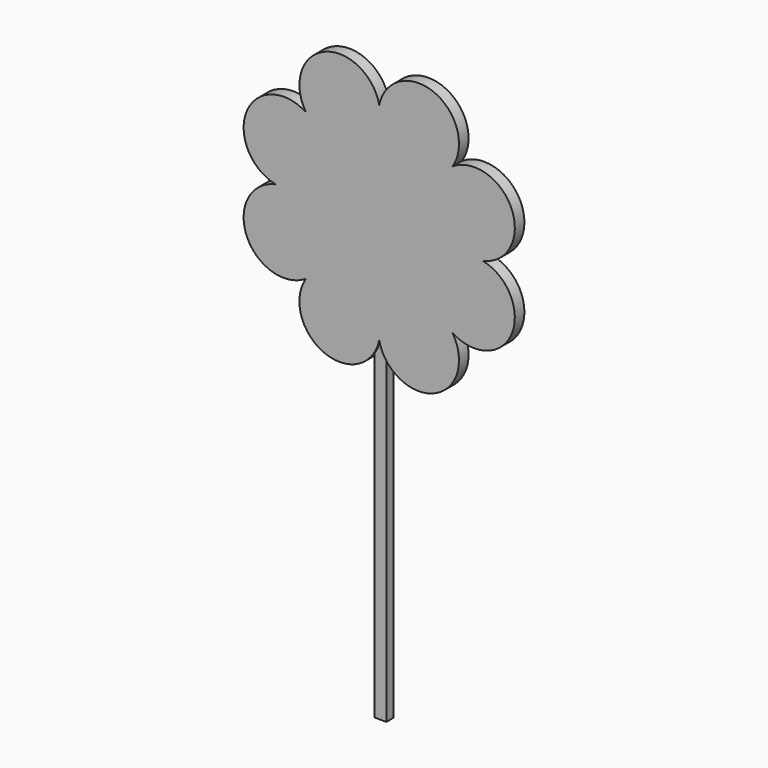
from build123d import *

# Parameters (mm, degrees)
F1_DEPTH = 1.5875
F2_DEPTH = 1.190625


with BuildPart() as f1:
    # F0 (on Front) → F1 (new body, symmetric)
    with BuildSketch(Plane.XZ):
        Polygon((-19.440318, 96.952444), (0, 88.9), (19.440318, 96.952444), (27.492762, 116.392762), (19.440318, 135.83308), (0, 143.885524), (-19.440318, 135.83308), (-27.492762, 116.392762), align=None)
        with BuildLine():
            Line((1.5875, 88.9), (1.5875, 85.124308))
            ThreePointArc((1.5875, 85.124308), (16.396635, 82.159273), (19.440318, 96.952444))
            Line((19.440318, 96.952444), (0, 88.9))
            Line((0, 88.9), (1.5875, 88.9))
        make_face()
        with BuildLine():
            Line((27.492762, 116.392762), (19.440318, 96.952444))
            ThreePointArc((19.440318, 96.952444), (35.19981, 101.812523), (27.492762, 116.392762))
        make_face()
        with BuildLine():
            Line((19.440318, 135.83308), (27.492762, 116.392762))
            ThreePointArc((27.492762, 116.392762), (35.19981, 130.973001), (19.440318, 135.83308))
        make_face()
        with BuildLine():
            Line((0, 143.885524), (19.440318, 135.83308))
            ThreePointArc((19.440318, 135.83308), (14.580239, 151.592572), (0, 143.885524))
        make_face()
        with BuildLine():
            ThreePointArc((0, 143.885524), (-14.580239, 151.592572), (-19.440318, 135.83308))
            Line((-19.440318, 135.83308), (0, 143.885524))
        make_face()
        with BuildLine():
            ThreePointArc((-19.440318, 135.83308), (-35.19981, 130.973001), (-27.492762, 116.392762))
            Line((-27.492762, 116.392762), (-19.440318, 135.83308))
        make_face()
        with BuildLine():
            ThreePointArc((-27.492762, 116.392762), (-35.19981, 101.812523), (-19.440318, 96.952444))
            Line((-19.440318, 96.952444), (-27.492762, 116.392762))
        make_face()
        with BuildLine():
            Line((-1.5875, 88.9), (0, 88.9))
            Line((0, 88.9), (-19.440318, 96.952444))
            ThreePointArc((-19.440318, 96.952444), (-16.396635, 82.159273), (-1.5875, 85.124308))
            Line((-1.5875, 85.124308), (-1.5875, 88.9))
        make_face()
        with BuildLine():
            ThreePointArc((0, 88.9), (0.61154, 86.935543), (1.5875, 85.124308))
            Line((1.5875, 85.124308), (1.5875, 88.9))
            Line((1.5875, 88.9), (0, 88.9))
        make_face()
        with BuildLine():
            ThreePointArc((-1.5875, 85.124308), (-0.61154, 86.935543), (0, 88.9))
            Line((0, 88.9), (-1.5875, 88.9))
            Line((-1.5875, 88.9), (-1.5875, 85.124308))
        make_face()
    extrude(amount=F1_DEPTH, both=True)

    # F0 (on Front) → F2 (join, symmetric)
    with BuildSketch(Plane.XZ):
        with BuildLine():
            Line((-1.5875, 0), (1.5875, 0))
            Line((1.5875, 0), (1.5875, 85.124308))
            ThreePointArc((1.5875, 85.124308), (0.61154, 86.935543), (0, 88.9))
            ThreePointArc((0, 88.9), (-0.61154, 86.935543), (-1.5875, 85.124308))
            Line((-1.5875, 85.124308), (-1.5875, 0))
        make_face()
    extrude(amount=F2_DEPTH, both=True)


solid = f1.part
